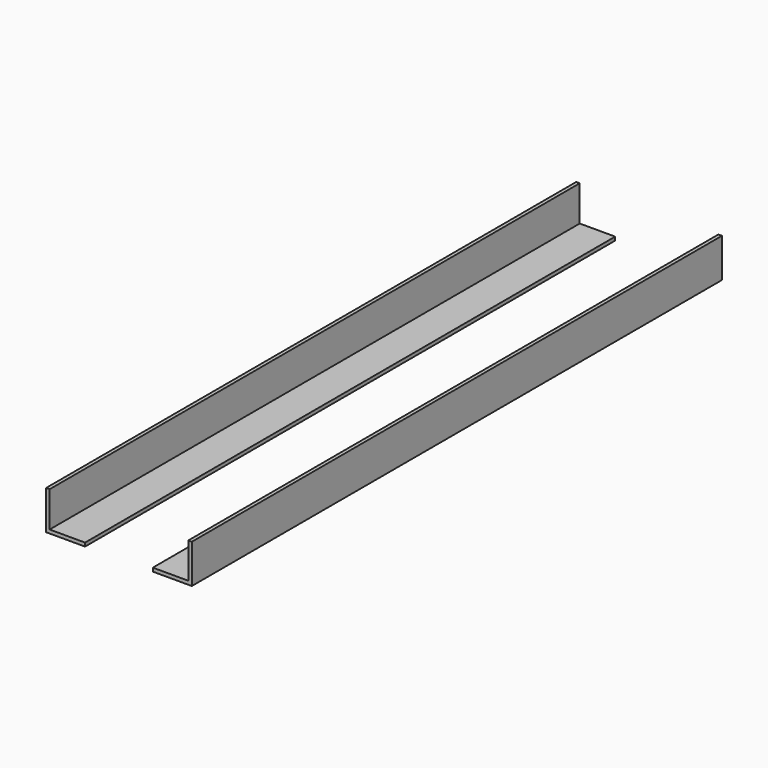
from build123d import *

# Parameters (mm, degrees)
F0_W     = 25.4
F0_H     = 474.98
F1_DEPTH = 2.54
F2_W     = 2.54
F2_H     = 474.98
F3_DEPTH = 27.94


with BuildPart() as f1:
    # F0 (on Top) → F1 (new body)
    with BuildSketch(Plane.XY):
        with Locations((-71.6243397117, -235.0153012371)):
            Rectangle(F0_W, F0_H)
    extrude(amount=F1_DEPTH)

    # F2 (on Top) → F3 (join)
    with BuildSketch(Plane.XY):
        with Locations((-85.5943397117, -235.0153012371)):
            Rectangle(F2_W, F2_H)
    extrude(amount=F3_DEPTH)


with BuildPart() as f1b:
    # F0 (on Top) → F1, piece 2 (new body)
    with BuildSketch(Plane.XY):
        with Locations((2.3429441869, -235.0153012371)):
            Rectangle(F0_W, F0_H)
    extrude(amount=F1_DEPTH)

    # F2 (on Top) → F3, piece 2 (join)
    with BuildSketch(Plane.XY):
        with Locations((16.3129441869, -235.0153012371)):
            Rectangle(F2_W, F2_H)
    extrude(amount=F3_DEPTH)


solid = Compound([f1.part, f1b.part])
